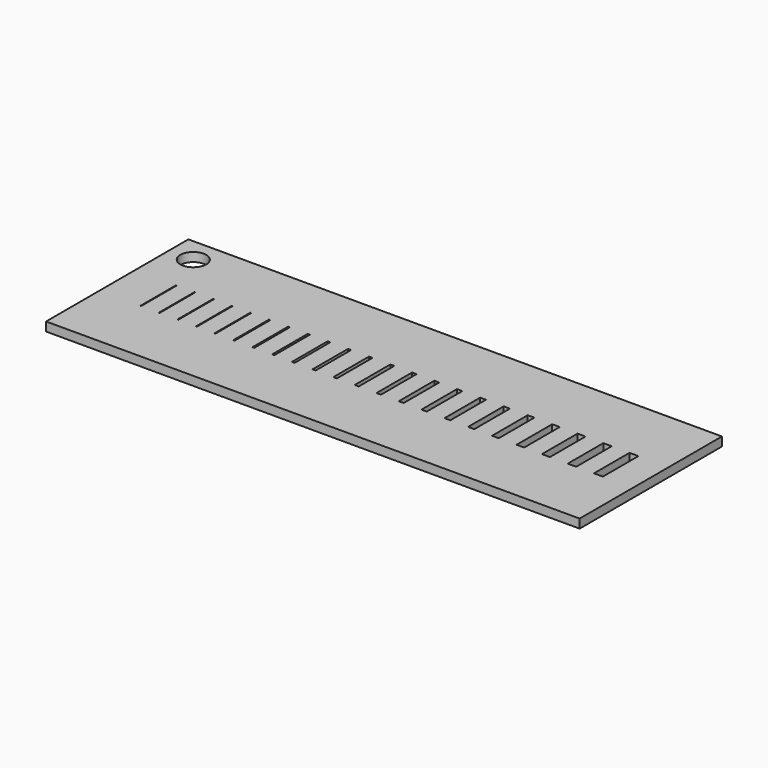
from build123d import *

# Parameters (mm, degrees)
SKETCH_W    = 60
SKETCH_H    = 20
SKETCH_R    = 1.454975
SKETCH_W_2  = 0.08
SKETCH_H_2  = 5
SKETCH_W_3  = 0.085
SKETCH_W_4  = 0.09
SKETCH_W_5  = 0.095
SKETCH_W_6  = 0.1
SKETCH_W_7  = 0.15
SKETCH_W_8  = 0.2
SKETCH_W_9  = 0.25
SKETCH_W_10 = 0.3
SKETCH_W_11 = 0.35
SKETCH_W_12 = 0.4
SKETCH_W_13 = 0.45
SKETCH_W_14 = 0.5
SKETCH_W_15 = 0.55
SKETCH_W_16 = 0.6
SKETCH_W_17 = 0.65
SKETCH_W_18 = 0.7
SKETCH_W_19 = 0.75
SKETCH_W_20 = 0.85
SKETCH_W_21 = 0.9
SKETCH_W_22 = 0.95
SKETCH_W_23 = 1
PAD_DEPTH   = 1


with BuildPart() as part:
    # Sketch → Pad (new body)
    with BuildSketch(Plane.XY):
        with Locations((0, 10)):
            Rectangle(SKETCH_W, SKETCH_H)
        with Locations((-27.249716, 17.255812)):
            Circle(SKETCH_R, mode=Mode.SUBTRACT)
        with Locations((-25.350953, 10)):
            Rectangle(SKETCH_W_2, SKETCH_H_2, mode=Mode.SUBTRACT)
        with Locations((-23.268453, 10)):
            Rectangle(SKETCH_W_3, SKETCH_H_2, mode=Mode.SUBTRACT)
        with Locations((-21.180953, 10)):
            Rectangle(SKETCH_W_4, SKETCH_H_2, mode=Mode.SUBTRACT)
        with Locations((-19.088453, 10)):
            Rectangle(SKETCH_W_5, SKETCH_H_2, mode=Mode.SUBTRACT)
        with Locations((-16.990953, 10)):
            Rectangle(SKETCH_W_6, SKETCH_H_2, mode=Mode.SUBTRACT)
        with Locations((-14.865953, 10)):
            Rectangle(SKETCH_W_7, SKETCH_H_2, mode=Mode.SUBTRACT)
        with Locations((-12.690953, 10)):
            Rectangle(SKETCH_W_8, SKETCH_H_2, mode=Mode.SUBTRACT)
        with Locations((-10.465953, 10)):
            Rectangle(SKETCH_W_9, SKETCH_H_2, mode=Mode.SUBTRACT)
        with Locations((-8.190953, 10)):
            Rectangle(SKETCH_W_10, SKETCH_H_2, mode=Mode.SUBTRACT)
        with Locations((-5.865953, 10)):
            Rectangle(SKETCH_W_11, SKETCH_H_2, mode=Mode.SUBTRACT)
        with Locations((-3.490953, 10)):
            Rectangle(SKETCH_W_12, SKETCH_H_2, mode=Mode.SUBTRACT)
        with Locations((-1.065953, 10)):
            Rectangle(SKETCH_W_13, SKETCH_H_2, mode=Mode.SUBTRACT)
        with Locations((1.409047, 10)):
            Rectangle(SKETCH_W_14, SKETCH_H_2, mode=Mode.SUBTRACT)
        with Locations((3.934047, 10)):
            Rectangle(SKETCH_W_15, SKETCH_H_2, mode=Mode.SUBTRACT)
        with Locations((6.509047, 10)):
            Rectangle(SKETCH_W_16, SKETCH_H_2, mode=Mode.SUBTRACT)
        with Locations((9.134047, 10)):
            Rectangle(SKETCH_W_17, SKETCH_H_2, mode=Mode.SUBTRACT)
        with Locations((11.809047, 10)):
            Rectangle(SKETCH_W_18, SKETCH_H_2, mode=Mode.SUBTRACT)
        with Locations((14.534047, 10)):
            Rectangle(SKETCH_W_19, SKETCH_H_2, mode=Mode.SUBTRACT)
        with Locations((17.334047, 10)):
            Rectangle(SKETCH_W_20, SKETCH_H_2, mode=Mode.SUBTRACT)
        with Locations((20.209047, 10)):
            Rectangle(SKETCH_W_21, SKETCH_H_2, mode=Mode.SUBTRACT)
        with Locations((23.134047, 10)):
            Rectangle(SKETCH_W_22, SKETCH_H_2, mode=Mode.SUBTRACT)
        with Locations((26.109047, 10)):
            Rectangle(SKETCH_W_23, SKETCH_H_2, mode=Mode.SUBTRACT)
    extrude(amount=PAD_DEPTH)


solid = part.part
